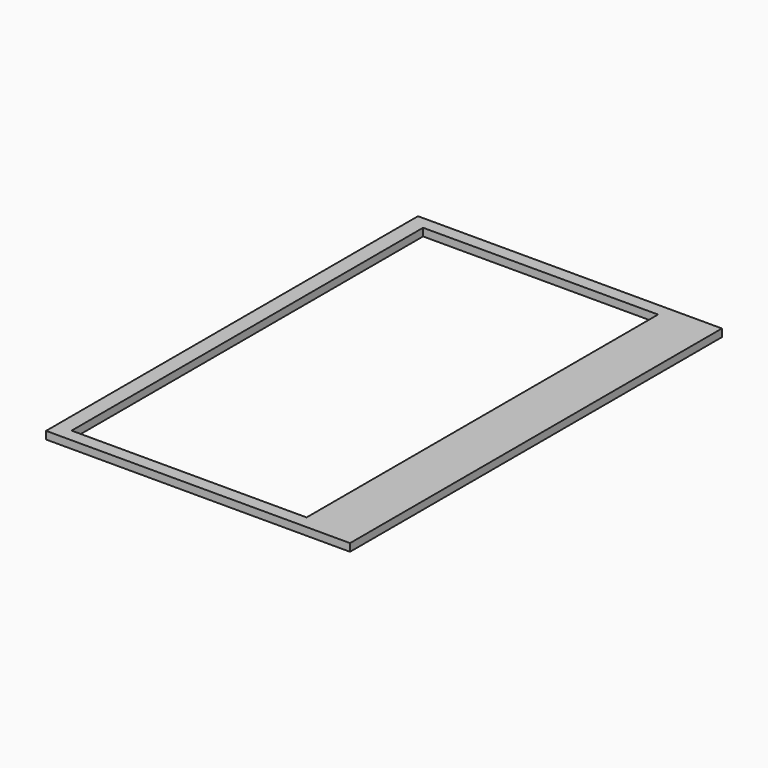
from build123d import *

# Parameters (mm, degrees)
BOX001_W     = 92
BOX001_H     = 172
BOX001_DEPTH = 10
BOX_W        = 119
BOX_H        = 182
BOX_DEPTH    = 3


with BuildPart() as cube001:
    # Box001 → Box001 (new body)
    with BuildSketch(Plane(origin=(9, 5, 0), x_dir=(1, 0, 0), z_dir=(0, 0, 1))):
        with Locations((46, 86)):
            Rectangle(BOX001_W, BOX001_H)
    extrude(amount=BOX001_DEPTH)


with BuildPart() as cut:
    # Box → Box (new body)
    with BuildSketch(Plane(origin=(3, 0, 0), x_dir=(1, 0, 0), z_dir=(0, 0, 1))):
        with Locations((59.5, 91)):
            Rectangle(BOX_W, BOX_H)
    extrude(amount=BOX_DEPTH)

    # Cut: cut Cube001
    add(cube001.part, mode=Mode.SUBTRACT)


solid = cut.part
